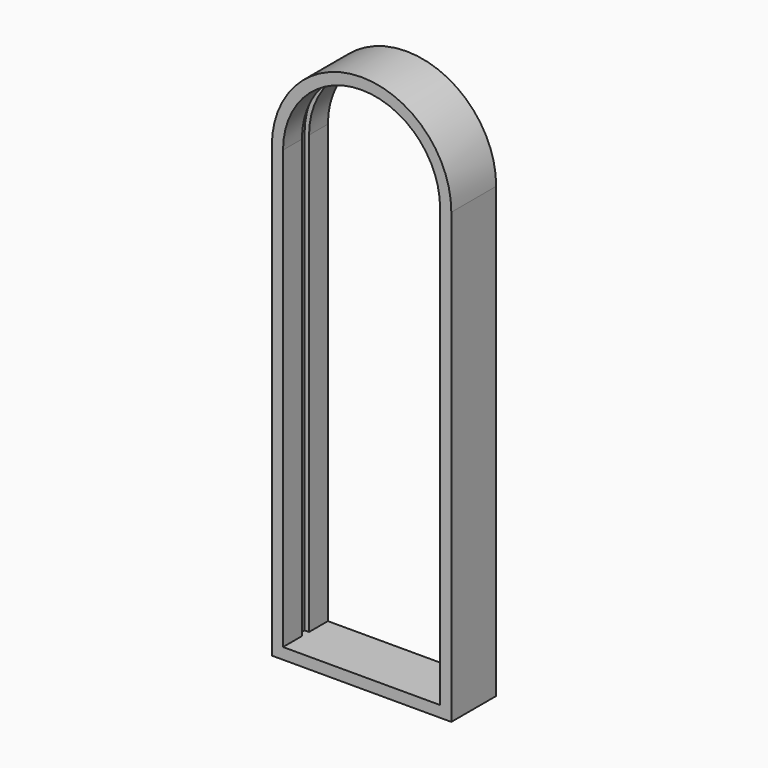
from build123d import *

# Parameters (mm, degrees)
F1_DEPTH = 25


with BuildPart() as f1:
    # F0 (on Front) → F1 (new body)
    with BuildSketch(Plane.XZ):
        with BuildLine():
            Line((0, 200), (0, 0))
            Line((0, 0), (80, 0))
            Line((80, 0), (80, 200))
            ThreePointArc((80, 200), (40, 240), (0, 200))
        make_face()
        with BuildLine():
            ThreePointArc((5, 200), (40, 235), (75, 200))
            Line((75, 200), (75, 5))
            Line((75, 5), (5, 5))
            Line((5, 5), (5, 200))
        make_face(mode=Mode.SUBTRACT)
    extrude(amount=F1_DEPTH)

    # F3: sweep along a path in F3_path
    with BuildLine(Plane(origin=(5, -25, 5), x_dir=(0, 0, -1), z_dir=(0, 1, 0))) as f3_path:
        Line((0, 0), (-195, 0))
        ThreePointArc((-195, 0), (-230, -35), (-195, -70))
        Line((-195, -70), (0, -70))
    # F2 (on face) → F3 (sweep, cut)
    with BuildSketch(Plane.XY.offset(5)):
        Polygon((5, -12.5), (5, -10.5), (3, -10.5), (3, -12.5), (3, -14.5), (5, -14.5), align=None)
    sweep(path=f3_path.line, mode=Mode.SUBTRACT)


solid = f1.part
